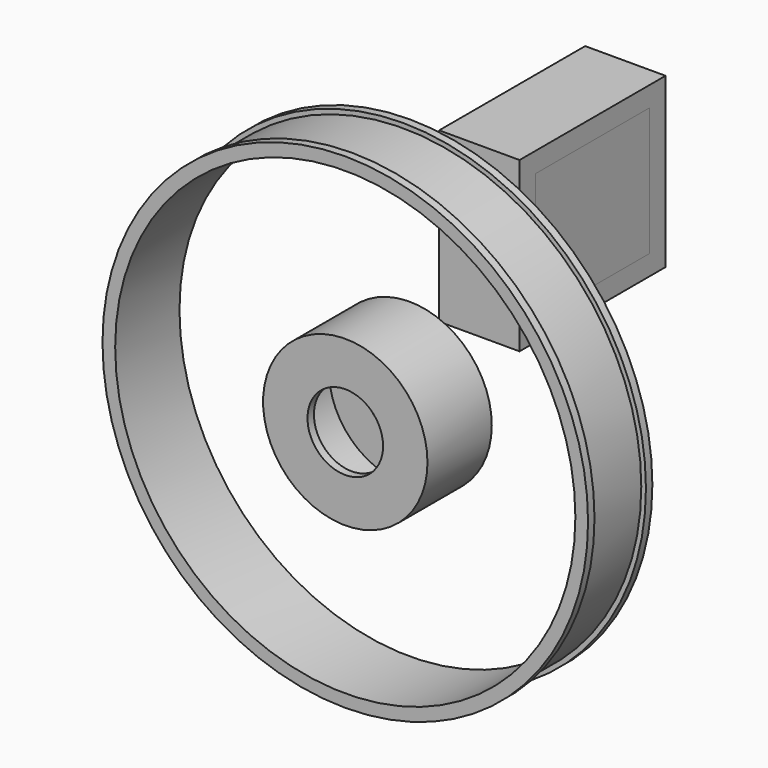
from build123d import *

# Parameters (mm, degrees)
F0_R     = 76.726188476
F0_R_2   = 72.7161920424
F1_DEPTH = 25.4
F0_R_3   = 25.9729126844
F0_R_4   = 11.9432833283
F2_T     = -2.54
F3_T     = -2.54
F7_DEPTH = 25.4
F6_W     = 44.9599027634
F6_H     = 40.532708168


with BuildPart() as f1:
    # F0 (on Front) → F1 (new body)
    with BuildSketch(Plane.XZ):
        Circle(F0_R)
        Circle(F0_R_2, mode=Mode.SUBTRACT)
    extrude(amount=F1_DEPTH)

    # F2
    f2_openings = [f1.faces().sort_by_distance(p)[0] for p in [
        (-76.726188, -12.7, 0),
    ]]
    offset(amount=F2_T, openings=f2_openings)


with BuildPart() as f1b:
    # F0 (on Front) → F1, piece 2 (new body)
    with BuildSketch(Plane.XZ):
        Circle(F0_R_3)
        Circle(F0_R_4, mode=Mode.SUBTRACT)
    extrude(amount=F1_DEPTH)

    # F3
    f3_openings = [f1b.faces().sort_by_distance(p)[0] for p in [
        (-11.943283, -12.7, 0),
    ]]
    offset(amount=F3_T, openings=f3_openings)


with BuildPart() as f7:
    # F5 (on Right) → F7 (new body)
    with BuildSketch(Plane.YZ):
        Polygon((11.6915064096, 15.6407313585), (69.351409173, 15.6407313585), (69.351409173, 68.8734395266), (11.6915064096, 68.8734395266), (11.6915064096, 41.7400859296), align=None)
    extrude(amount=F7_DEPTH)


with BuildPart() as f7b:
    # F6 (on face) → F7, piece 2 (new body)
    with BuildSketch(Plane.YZ):
        with Locations((40.5214577913, 42.2570854425)):
            Rectangle(F6_W, F6_H)
    extrude(amount=F7_DEPTH)


solid = Compound([f1.part, f1b.part, f7.part, f7b.part])
